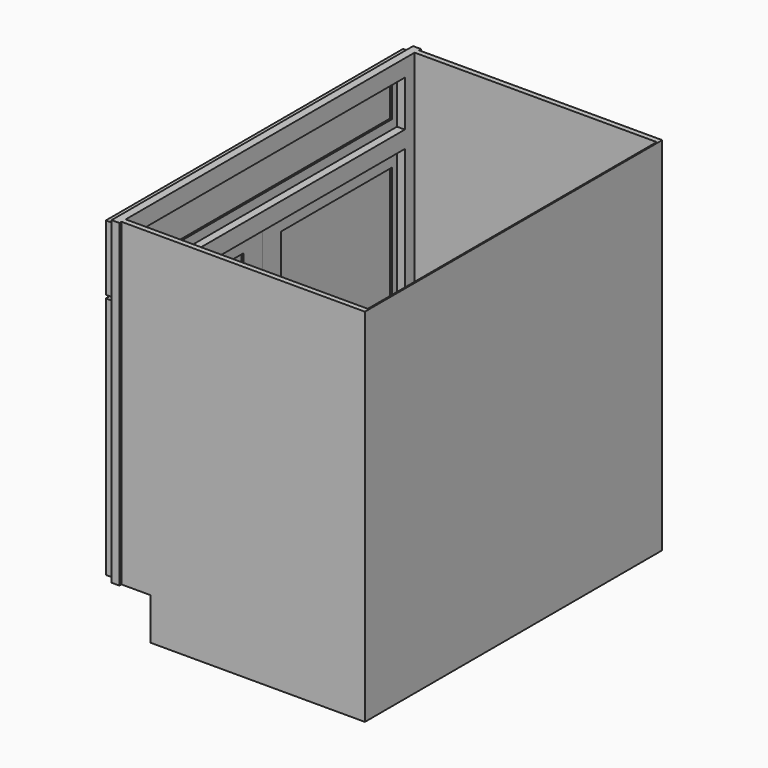
from build123d import *

# Parameters (mm, degrees)
F0_W      = 609.6
F0_H      = 876.3
F1_DEPTH  = 914.4
F2_W      = 88.9
F2_H      = 101.6
F3_DEPTH  = 914.401
F4_W      = 816.963934
F4_H      = 692.15
F5_DEPTH  = 19.05
F6_W      = 590.55
F6_H      = 6.35
F7_DEPTH  = 876.301
F8_W      = 587.375
F8_H      = 876.3
F9_DEPTH  = 733.425
F10_W     = 816.963934
F10_H     = 41.275
F11_DEPTH = 19.05
F12_W     = 450.85
F12_H     = 590.5627
F12_W_2   = 336.55
F12_H_2   = 476.2627
F13_DEPTH = 19.05
F14_W     = 6.35
F14_H     = 336.55
F15_DEPTH = 476.2627
F16_SIZE  = 3.175
F17_W     = 901.7
F17_H     = 158.75
F17_W_2   = 787.4
F17_H_2   = 82.55
F18_DEPTH = 19.05
F19_W     = 6.35
F19_H     = 787.4
F20_DEPTH = 82.55
F21_SIZE  = 3.175
F22_W     = 504.825
F22_H     = 876.3
F23_DEPTH = 101.6


with BuildPart() as f1:
    # F0 (on Front) → F1 (new body)
    with BuildSketch(Plane.XZ):
        Rectangle(F0_W, F0_H)
    extrude(amount=-F1_DEPTH)

    # F2 (on face) → F3 (cut, through all)
    with BuildSketch(Plane.XZ):
        with Locations((-260.35, -387.35)):
            Rectangle(F2_W, F2_H)
    extrude(amount=-F3_DEPTH, mode=Mode.SUBTRACT)

    # F4 (on face) → F5 (cut)
    with BuildSketch(Plane(origin=(-304.8, 0, 0), x_dir=(0, -1, 0), z_dir=(-1, 0, 0))):
        with Locations((-457.2, 50.8)):
            Rectangle(F4_W, F4_H)
    extrude(amount=-F5_DEPTH, mode=Mode.SUBTRACT)

    # F6 (on face) → F7 (cut, through all)
    with BuildSketch(Plane.XY.offset(438.15)):
        with Locations((9.525, 911.225)):
            Rectangle(F6_W, F6_H)
        with Locations((9.525, 3.175)):
            Rectangle(F6_W, F6_H)
    extrude(amount=-F7_DEPTH, mode=Mode.SUBTRACT)

    # F8 (on face) → F9 (cut, through all)
    with BuildSketch(Plane.XY.offset(438.15)):
        with Locations((7.9375, 457.2)):
            Rectangle(F8_W, F8_H)
    extrude(amount=-F9_DEPTH, mode=Mode.SUBTRACT)

    # F10 (on face) → F11 (join, through all)
    with BuildSketch(Plane(origin=(-304.8, 0, 0), x_dir=(0, -1, 0), z_dir=(-1, 0, 0))):
        with Locations((-457.2, 265.1125)):
            Rectangle(F10_W, F10_H)
    extrude(amount=-F11_DEPTH)

    # F22 (on face) → F23 (cut)
    with BuildSketch(Plane(origin=(0, 0, -438.15), x_dir=(1, 0, 0), z_dir=(0, 0, -1))):
        with Locations((49.2125, -457.2)):
            Rectangle(F22_W, F22_H)
    extrude(amount=-F23_DEPTH, mode=Mode.SUBTRACT)


with BuildPart() as f13:
    # F12 (on face) → F13 (new body)
    with BuildSketch(Plane(origin=(-304.8, 0, 0), x_dir=(0, -1, 0), z_dir=(-1, 0, 0))):
        with Locations((-682.625, -33.33115)):
            Rectangle(F12_W, F12_H)
        with Locations((-682.625, -33.33115)):
            Rectangle(F12_W_2, F12_H_2, mode=Mode.SUBTRACT)
    extrude(amount=F13_DEPTH)

    # F14 (on face) → F15 (join, through all)
    with BuildSketch(Plane.XY.offset(-271.4625)):
        with Locations((-312.7375, 682.625)):
            Rectangle(F14_W, F14_H)
    extrude(amount=F15_DEPTH)

    # F16
    f16_edges = [f13.edges().sort_by_distance(p)[0] for p in [
        (-323.85, 850.9, -33.33115),
        (-323.85, 682.625, -271.4625),
        (-323.85, 514.35, -33.33115),
        (-323.85, 682.625, 204.8002),
    ]]
    chamfer(f16_edges, length=F16_SIZE)


with BuildPart() as f18:
    # F17 (on face) → F18 (new body)
    with BuildSketch(Plane(origin=(-304.8, 0, 0), x_dir=(0, -1, 0), z_dir=(-1, 0, 0))):
        with Locations((-457.2, 349.25)):
            Rectangle(F17_W, F17_H)
        with Locations((-457.2, 349.25)):
            Rectangle(F17_W_2, F17_H_2, mode=Mode.SUBTRACT)
    extrude(amount=F18_DEPTH)

    # F19 (on face) → F20 (join, through all)
    with BuildSketch(Plane.XY.offset(307.975)):
        with Locations((-312.7375, 457.2)):
            Rectangle(F19_W, F19_H)
    extrude(amount=F20_DEPTH)

    # F21
    f21_edges = [f18.edges().sort_by_distance(p)[0] for p in [
        (-323.85, 457.2, 307.975),
        (-323.85, 850.9, 349.25),
        (-323.85, 457.2, 390.525),
        (-323.85, 63.5, 349.25),
    ]]
    chamfer(f21_edges, length=F21_SIZE)


with BuildPart() as f24_1:
    # F24: instance of F13
    add(f13.part.mirror(Plane(origin=(-314.325, 457.2, -33.33115), x_dir=(1, 0, 0), z_dir=(0, -1, 0))))


solid = Compound([f1.part, f13.part, f18.part, f24_1.part])
